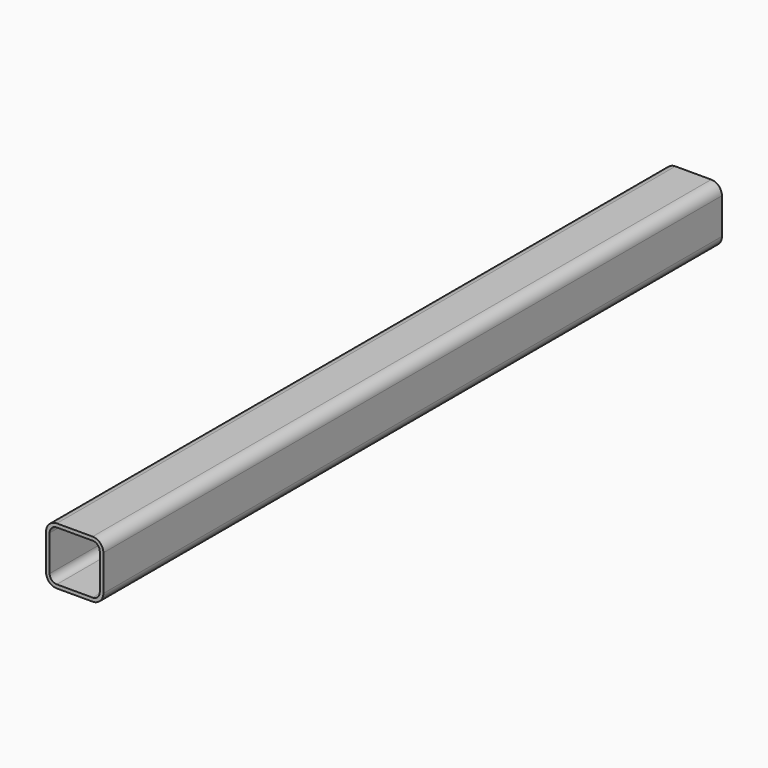
from build123d import *

# Parameters (mm, degrees)
SKETCH_W             = 101.6
SKETCH_H             = 101.6
PAD_DEPTH            = 1371.6
FILLET_R             = 19.05
SKETCH001_W          = 88.9
SKETCH001_H          = 88.9
POCKET_DEPTH         = 1371.601
FILLET001_R          = 12.7
BODY_ROLL_ANGLE      = -90
BODY_PLACEMENT_ANGLE = -90


with BuildPart() as part:
    # Sketch → Pad (new body)
    with BuildSketch(Plane.YZ):
        Rectangle(SKETCH_W, SKETCH_H)
    extrude(amount=PAD_DEPTH)

    # Fillet
    fillet_edges = [part.edges().sort_by_distance(p)[0] for p in [
        (685.8, 50.8, 50.8),
        (685.8, -50.8, 50.8),
        (685.8, 50.8, -50.8),
        (685.8, -50.8, -50.8),
    ]]
    fillet(fillet_edges, radius=FILLET_R)

    # Sketch001 → Pocket (cut, through all)
    with BuildSketch(Plane.YZ):
        Rectangle(SKETCH001_W, SKETCH001_H)
    extrude(amount=POCKET_DEPTH, mode=Mode.SUBTRACT)

    # Fillet001
    fillet001_edges = [part.edges().sort_by_distance(p)[0] for p in [
        (685.8, -44.45, -44.45),
        (685.8, -44.45, 44.45),
        (685.8, 44.45, 44.45),
        (685.8, 44.45, -44.45),
    ]]
    fillet(fillet001_edges, radius=FILLET001_R)


with BuildPart() as part_1:
    # Body roll: moved
    add(part.part.rotate(Axis((0, 0, 0), (1, 0, 0)), BODY_ROLL_ANGLE))


with BuildPart() as part_2:
    # Body placement: moved
    add(part_1.part.rotate(Axis((0, 0, 0), (0, 0, 1)), BODY_PLACEMENT_ANGLE))


solid = part_2.part
